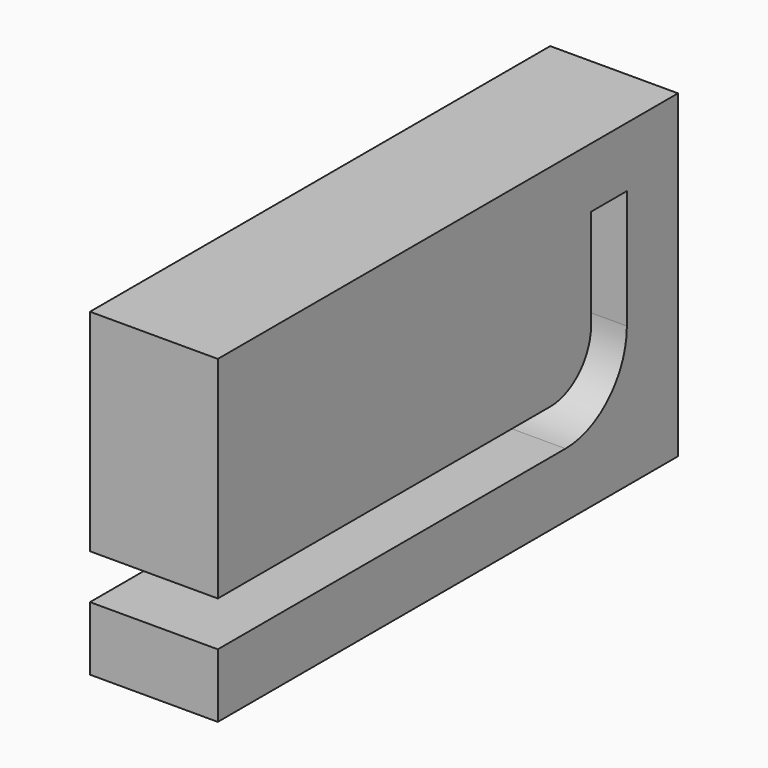
from build123d import *

# Parameters (mm, degrees)
BOX_W        = 10
BOX_H        = 45
BOX_DEPTH    = 25
POCKET_DEPTH = 10


with BuildPart() as part:
    # Box → Box (join)
    with BuildSketch(Plane.XY.offset(-5)):
        with Locations((5, 22.5)):
            Rectangle(BOX_W, BOX_H)
    extrude(amount=BOX_DEPTH)

    # Sketch → Pocket (cut)
    with BuildSketch(Plane.YZ):
        with BuildLine():
            Line((40, 15.3), (40, 6))
            ThreePointArc((34, 0), (38.242641, 1.757359), (40, 6))
            Line((0, 0), (34, 0))
            Line((0, 3.5), (0, 0))
            Line((32.5, 3.5), (0, 3.5))
            ThreePointArc((32.5, 3.5), (35.328427, 4.671573), (36.5, 7.5))
            Line((36.5, 15.3), (36.5, 7.5))
            Line((36.5, 15.3), (40, 15.3))
        make_face()
    extrude(amount=POCKET_DEPTH, mode=Mode.SUBTRACT)


solid = part.part
